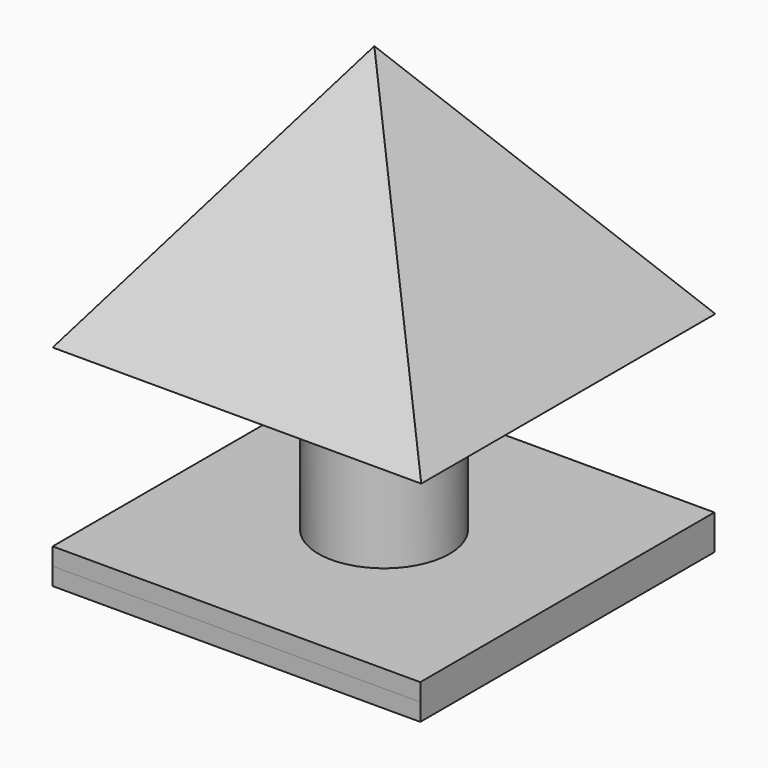
from build123d import *

# Parameters (mm, degrees)
F0_W     = 106.680002
F0_H     = 106.679999
F1_DEPTH = 5.08
F2_W     = 85.344006
F2_H     = 85.343998
F3_DEPTH = 5.08
F4_R     = 19.051364
F5_DEPTH = 50.8
F6_W     = 106.960736
F6_H     = 106.679999


with BuildPart() as f1:
    # F0 (on Top) → F1 (new body)
    with BuildSketch(Plane.XY):
        with Locations((-0.140367, 3.509208)):
            Rectangle(F0_W, F0_H)
    extrude(amount=F1_DEPTH)

    # F2 (on face) → F3 (join)
    with BuildSketch(Plane(origin=(0, 0, 0), x_dir=(1, 0, 0), z_dir=(0, 0, -1))):
        Polygon((-42.81237, 49.830791), (-53.480368, 49.830791), (-53.480368, 39.162789), (-53.480368, -46.181209), (-53.480368, -56.849208), (-42.81237, -56.849208), (42.531636, -56.849208), (53.199634, -56.849208), (53.199634, -46.181209), (53.199634, 39.162789), (53.199634, 49.830791), (42.531636, 49.830791), align=None)
        with Locations((-0.140367, -3.50921)):
            Rectangle(F2_W, F2_H, mode=Mode.SUBTRACT)
    extrude(amount=F3_DEPTH)

    # F4 (on face) → F5 (join)
    with BuildSketch(Plane.XY.offset(5.08)):
        with Locations((0, 3.509209)):
            Circle(F4_R)
    extrude(amount=F5_DEPTH)


with BuildPart() as f8:
    # F6 (on face) → F8 section 0
    with BuildSketch(Plane.XY.offset(55.88), mode=Mode.PRIVATE) as f8_s0:
        with Locations((0, 3.509208)):
            Rectangle(F6_W, F6_H)
    loft([f8_s0.sketch, Vertex(0, 0, 130.016908)])


solid = Compound([f1.part, f8.part])
